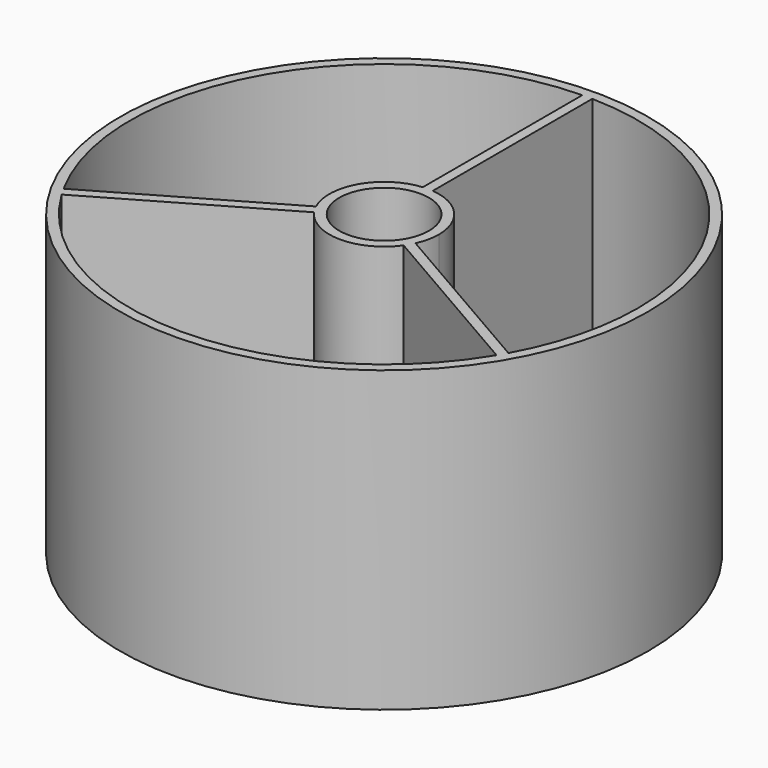
from build123d import *

# Parameters (mm, degrees)
F0_R     = 26.5
F0_R_2   = 4.5
F1_DEPTH = 30


with BuildPart() as f1:
    # F0 (on Top) → F1 (new body)
    with BuildSketch(Plane.XY):
        Circle(F0_R)
        with BuildLine():
            ThreePointArc((0.5, 25.495098), (18.207141, 17.853571), (25.5, 0))
            ThreePointArc((25.5, 0), (24.694633, -6.358075), (22.329402, -12.314536))
            ThreePointArc((22.329402, -12.314536), (22.083648, -12.75), (21.829402, -13.180561))
            ThreePointArc((21.829402, -13.180561), (0, -25.5), (-21.829402, -13.180561))
            ThreePointArc((-21.829402, -13.180561), (-22.083648, -12.75), (-22.329402, -12.314536))
            ThreePointArc((-22.329402, -12.314536), (-22.083648, 12.75), (-0.5, 25.495098))
            ThreePointArc((-0.5, 25.495098), (0, 25.5), (0.5, 25.495098))
        make_face(mode=Mode.SUBTRACT)
        with BuildLine():
            ThreePointArc((5.5, 0), (4.062019, 3.708099), (0.5, 5.477226))
            ThreePointArc((0.5, 5.477226), (0, 5.5), (-0.5, 5.477226))
            ThreePointArc((-0.5, 5.477226), (-4.76314, 2.75), (-4.993416, -2.3056))
            ThreePointArc((-4.993416, -2.3056), (-4.76314, -2.75), (-4.493416, -3.171625))
            ThreePointArc((-4.493416, -3.171625), (0, -5.5), (4.493416, -3.171625))
            ThreePointArc((4.493416, -3.171625), (4.76314, -2.75), (4.993416, -2.3056))
            ThreePointArc((4.993416, -2.3056), (5.371861, -1.180299), (5.5, 0))
        make_face()
        Circle(F0_R_2, mode=Mode.SUBTRACT)
        with BuildLine():
            Line((0.5, 5.477226), (0.5, 25.495098))
            ThreePointArc((0.5, 25.495098), (0, 25.5), (-0.5, 25.495098))
            Line((-0.5, 25.495098), (-0.5, 5.477226))
            ThreePointArc((-0.5, 5.477226), (0, 5.5), (0.5, 5.477226))
        make_face()
        with BuildLine():
            Line((-4.993416, -2.3056), (-22.329402, -12.314536))
            ThreePointArc((-22.329402, -12.314536), (-22.083648, -12.75), (-21.829402, -13.180561))
            Line((-21.829402, -13.180561), (-4.493416, -3.171625))
            ThreePointArc((-4.493416, -3.171625), (-4.76314, -2.75), (-4.993416, -2.3056))
        make_face()
        with BuildLine():
            ThreePointArc((21.829402, -13.180561), (22.083648, -12.75), (22.329402, -12.314536))
            Line((22.329402, -12.314536), (4.993416, -2.3056))
            ThreePointArc((4.993416, -2.3056), (4.76314, -2.75), (4.493416, -3.171625))
            Line((4.493416, -3.171625), (21.829402, -13.180561))
        make_face()
    extrude(amount=F1_DEPTH)


solid = f1.part
